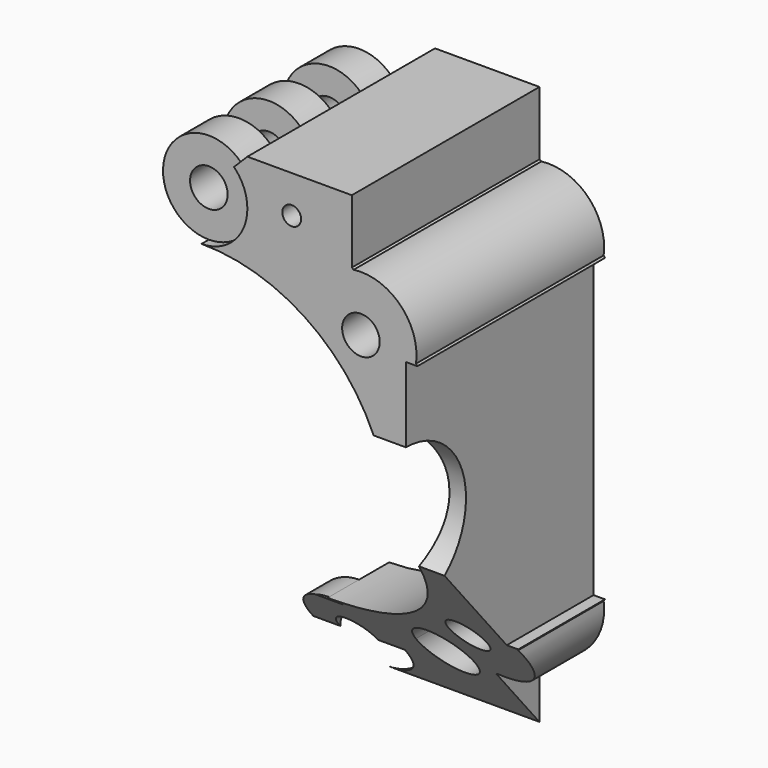
from build123d import *

# Parameters (mm, degrees)
F0_R           = 0.79375
F1_DEPTH       = 25.4
F3_START       = -1.5875
F2_R           = 1.93675
F3_DEPTH       = 1.5875
F5_START       = 1.5875
F4_R           = 1.93675
F5_DEPTH       = 1.5875
F7_START       = 1.5875
F6_R           = 1.93675
F7_DEPTH       = 1.5875
F9_START       = 1.5875
F8_R           = 1.93675
F9_DEPTH       = 1.5875
F11_START      = 1.5875
F10_R          = 1.93675
F11_DEPTH      = 1.5875
F13_START      = 1.5875
F12_R          = 1.93675
F13_DEPTH      = 1.5875
F14_R          = 0.79375
F15_DEPTH      = 23.8135
F16_R          = 0.79375
F17_DEPTH      = 23.8135
F19_DEPTH      = 25.4
F19_DEPTH_BACK = 25.4
F20_R          = 3.175
F21_DEPTH      = 25.4


with BuildPart() as f1:
    # F0 (on Front) → F1 (new body)
    with BuildSketch(Plane.XZ):
        with BuildLine():
            ThreePointArc((1.5896937253, 0.4764627531), (2.6960840616, -0.0482905293), (3.7380205176, -0.6915898416))
            Line((3.7380205176, -0.6915898416), (3.7380205176, 1.9999169571))
            Line((3.7380205176, 1.9999169571), (-0.6752294824, 1.9999169571))
            Line((-0.6752294824, 1.9999169571), (-1.2424904239, 1.4326560155))
            ThreePointArc((-1.2424904239, 1.4326560155), (-1.1342950237, 1.3151450731), (-1.0361511327, 1.1891179217))
            ThreePointArc((-1.0361511327, 1.1891179217), (-0.0353529614, 0.9985724567), (0.9437888558, 0.7171726424))
            ThreePointArc((0.9437888558, 0.7171726424), (1.336612932, 0.7843066024), (1.5896937253, 0.4764627531))
        make_face()
        with BuildLine():
            ThreePointArc((-0.6752294824, 0.0631669571), (-0.7905484204, -0.5951562531), (-1.1227724786, -1.1750830429))
            Line((-1.1227724786, -1.1750830429), (3.7380205176, -1.1750830429))
            Line((3.7380205176, -1.1750830429), (3.7380205176, -0.6915898416))
            ThreePointArc((3.7380205176, -0.6915898416), (2.6960840616, -0.0482905293), (1.5896937253, 0.4764627531))
            ThreePointArc((1.5896937253, 0.4764627531), (1.5935929319, 0.4445453037), (1.5948955176, 0.4124169571))
            ThreePointArc((1.5948955176, 0.4124169571), (1.0297772788, 0.0529674082), (0.9437888558, 0.7171726424))
            ThreePointArc((0.9437888558, 0.7171726424), (-0.0353529614, 0.9985724567), (-1.0361511327, 1.1891179217))
            ThreePointArc((-1.0361511327, 1.1891179217), (-0.7676657728, 0.654358553), (-0.6752294824, 0.0631669571))
        make_face()
        with BuildLine():
            ThreePointArc((-2.6119794826, -1.8735830429), (3.0006805932, -4.1984229672), (5.3255205176, -9.8110830429))
            ThreePointArc((5.3255205176, -9.8110830429), (3.0006805933, -15.4237431186), (-2.6119794824, -17.7485830429))
            ThreePointArc((-2.6119794824, -17.7485830429), (-1.7895380331, -17.9318819815), (-1.1227724786, -18.4470830429))
            Line((-1.1227724786, -18.4470830429), (0.6491882277, -18.4470830429))
            ThreePointArc((0.6491882277, -18.4470830429), (1.8330205176, -17.3834580429), (3.0168528075, -18.4470830429))
            Line((3.0168528075, -18.4470830429), (3.7380205176, -18.4470830429))
            Line((3.7380205176, -18.4470830429), (3.7380205176, -18.9305762443))
            ThreePointArc((3.7380205176, -18.9305762443), (3.777174424, -18.9031877834), (3.8162102016, -18.8756312191))
            ThreePointArc((3.8162102016, -18.8756312191), (5.7845599908, -18.2076225161), (6.4525686938, -16.2392727269))
            ThreePointArc((6.4525686938, -16.2392727269), (6.4801252581, -16.2002369493), (6.507513719, -16.1610830429))
            Line((6.507513719, -16.1610830429), (6.0240205176, -16.1610830429))
            Line((6.0240205176, -16.1610830429), (6.0240205176, -3.4610830429))
            Line((6.0240205176, -3.4610830429), (6.507513719, -3.4610830429))
            ThreePointArc((6.507513719, -3.4610830429), (6.4801252581, -3.4219291366), (6.4525686938, -3.382893359))
            ThreePointArc((6.4525686938, -3.382893359), (5.7845599908, -1.4145435697), (3.8162102016, -0.7465348668))
            ThreePointArc((3.8162102016, -0.7465348668), (3.777174424, -0.7189783025), (3.7380205176, -0.6915898416))
            Line((3.7380205176, -0.6915898416), (3.7380205176, -1.1750830429))
            Line((3.7380205176, -1.1750830429), (-1.1227724786, -1.1750830429))
            ThreePointArc((-1.1227724786, -1.1750830429), (-1.7895380332, -1.6902841045), (-2.6119794826, -1.8735830429))
        make_face()
        with Locations((4.1232126084, -16.5462751337)):
            Circle(F0_R, mode=Mode.SUBTRACT)
        with Locations((4.1232126084, -3.0758909521)):
            Circle(F0_R, mode=Mode.SUBTRACT)
        with BuildLine():
            Line((0.6491882277, -18.4470830429), (-1.1227724786, -18.4470830429))
            ThreePointArc((-1.1227724786, -18.4470830429), (-0.7905484204, -19.0270098328), (-0.6752294824, -19.6853330429))
            ThreePointArc((-0.6752294824, -19.6853330429), (-0.7676657728, -20.2765246389), (-1.0361511327, -20.8112840076))
            ThreePointArc((-1.0361511327, -20.8112840076), (1.4609745046, -20.150265896), (3.7380205176, -18.9305762443))
            Line((3.7380205176, -18.9305762443), (3.7380205176, -18.4470830429))
            Line((3.7380205176, -18.4470830429), (3.0168528075, -18.4470830429))
            ThreePointArc((3.0168528075, -18.4470830429), (3.0219461273, -18.5104922792), (3.0236455176, -18.5740830429))
            ThreePointArc((3.0236455176, -18.5740830429), (1.7694297539, -19.7630086526), (0.6491882277, -18.4470830429))
        make_face()
        with BuildLine():
            ThreePointArc((3.7380205176, -18.9305762443), (1.4609745046, -20.150265896), (-1.0361511327, -20.8112840076))
            ThreePointArc((-1.0361511327, -20.8112840076), (-1.7258883381, -21.4074953601), (-2.6119794824, -21.6220830429))
            Line((-2.6119794824, -21.6220830429), (3.7380205176, -21.6220830429))
            Line((3.7380205176, -21.6220830429), (3.7380205176, -18.9305762443))
        make_face()
    extrude(amount=-F1_DEPTH)

    # F2 (on face) → F3 (join)
    with BuildSketch(Plane(origin=(0, 25.4, 0), x_dir=(-1, 0, 0), z_dir=(0, 1, 0)).offset(F3_START)):
        with Locations((2.6119794824, 0.0631669571)):
            Circle(F2_R)
        with Locations((2.6119794824, -19.6853330429)):
            Circle(F2_R)
    extrude(amount=-F3_DEPTH)

    # F4 (on face) → F5 (join)
    with BuildSketch(Plane.XZ.offset(-22.225).offset(F5_START)):
        with Locations((-2.6119794824, 0.0631669571)):
            Circle(F4_R)
    extrude(amount=F5_DEPTH)

    # F6 (on face) → F7 (join)
    with BuildSketch(Plane.XZ.offset(-19.05).offset(F7_START)):
        with Locations((-2.6119794824, 0.0631669571)):
            Circle(F6_R)
    extrude(amount=F7_DEPTH)

    # F8 (on face) → F9 (join)
    with BuildSketch(Plane.XZ.offset(-15.875).offset(F9_START)):
        with Locations((-2.6119794824, 0.0631669571)):
            Circle(F8_R)
    extrude(amount=F9_DEPTH)

    # F10 (on face) → F11 (join)
    with BuildSketch(Plane.XZ.offset(-12.7).offset(F11_START)):
        with Locations((-2.6119794824, 0.0631669571)):
            Circle(F10_R)
    extrude(amount=F11_DEPTH)

    # F12 (on face) → F13 (join)
    with BuildSketch(Plane.XZ.offset(-22.225).offset(F13_START)):
        with Locations((-2.6119794824, -19.6853330429)):
            Circle(F12_R)
    extrude(amount=F13_DEPTH)

    # F14 (on face) → F15 (cut, through all)
    with BuildSketch(Plane(origin=(0, 23.8125, 0), x_dir=(-1, 0, 0), z_dir=(0, 1, 0))):
        with Locations((2.6119794824, 0.0631669571)):
            Circle(F14_R)
    extrude(amount=-F15_DEPTH, mode=Mode.SUBTRACT)

    # F16 (on face) → F17 (cut, through all)
    with BuildSketch(Plane(origin=(0, 23.8125, 0), x_dir=(-1, 0, 0), z_dir=(0, 1, 0))):
        with Locations((2.6119794824, -19.6853330429)):
            Circle(F16_R)
    extrude(amount=-F17_DEPTH, mode=Mode.SUBTRACT)

    # F18 (on face) → F19 (cut, two sides)
    with BuildSketch(Plane.YZ.offset(6.0240205176)) as f19_sk:
        Polygon((21.9337120652, -25.8094575256), (25.4, -21.6220830429), (15.4893942562, -9.8110830429), (15.4893942562, 6.843551062), (-6.1063589528, 6.843551062), (-6.1063589528, -25.8094575256), align=None)
    extrude(amount=-F19_DEPTH, mode=Mode.SUBTRACT)
    extrude(f19_sk.sketch, amount=F19_DEPTH_BACK, mode=Mode.SUBTRACT)

    # F20 (on face) → F21 (cut)
    with BuildSketch(Plane.YZ.offset(6.0240205176)):
        with Locations((15.4893942562, -9.8110830429)):
            Circle(F20_R)
    extrude(amount=-F21_DEPTH, mode=Mode.SUBTRACT)


solid = f1.part
